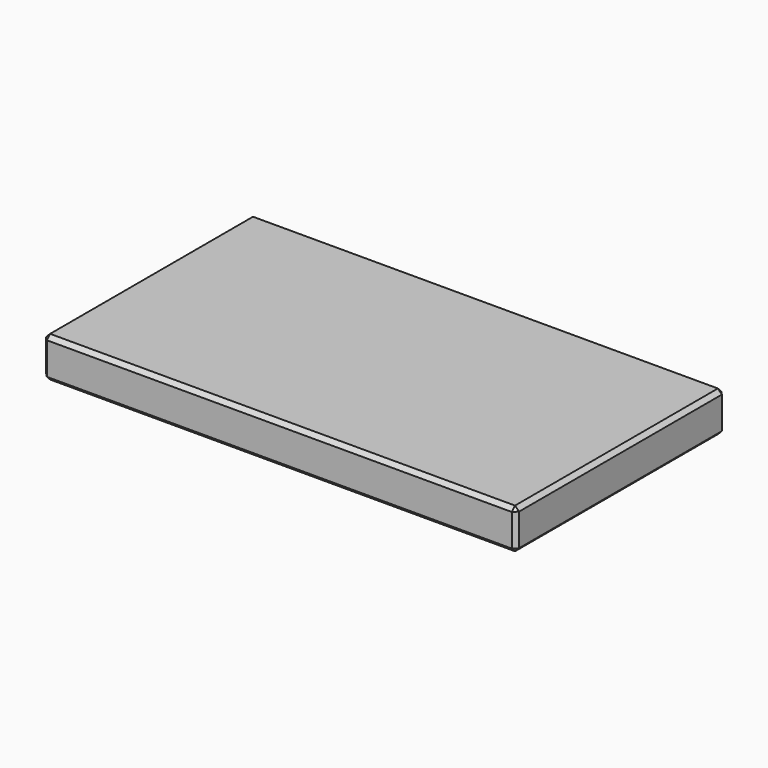
from build123d import *

# Parameters (mm, degrees)
F0_W     = 235
F0_H     = 130
F1_DEPTH = 20
F2_SIZE  = 2
F4_D     = 7
F4_DEPTH = 15
F4_TIP   = 2.1030121666


with BuildPart() as f1:
    # F0 (on Top) → F1 (new body)
    with BuildSketch(Plane.XY):
        Rectangle(F0_W, F0_H)
    extrude(amount=F1_DEPTH)

    # F2
    f2_edges = [f1.edges().sort_by_distance(p)[0] for p in [
        (-117.5, -65, 10),
        (117.5, -65, 10),
        (0, -65, 0),
        (0, -65, 20),
        (117.5, 65, 10),
        (117.5, 0, 0),
        (117.5, 0, 20),
        (-117.5, 65, 10),
        (0, 65, 0),
        (0, 65, 20),
        (-117.5, 0, 0),
        (-117.5, 0, 20),
    ]]
    chamfer(f2_edges, length=F2_SIZE)

    # F4
    with Locations(Plane(origin=(0, 0, 0), x_dir=(1, 0, 0), z_dir=(0, 0, -1))):
        with Locations((-100, -37.5), (100, -37.5), (-100, 37.5), (100, 37.5)):
            Hole(F4_D / 2, depth=F4_DEPTH)
            with Locations((0, 0, -(F4_DEPTH + F4_TIP / 2))):  # 118° drill point
                Cone(0, F4_D / 2, F4_TIP, mode=Mode.SUBTRACT)


solid = f1.part
